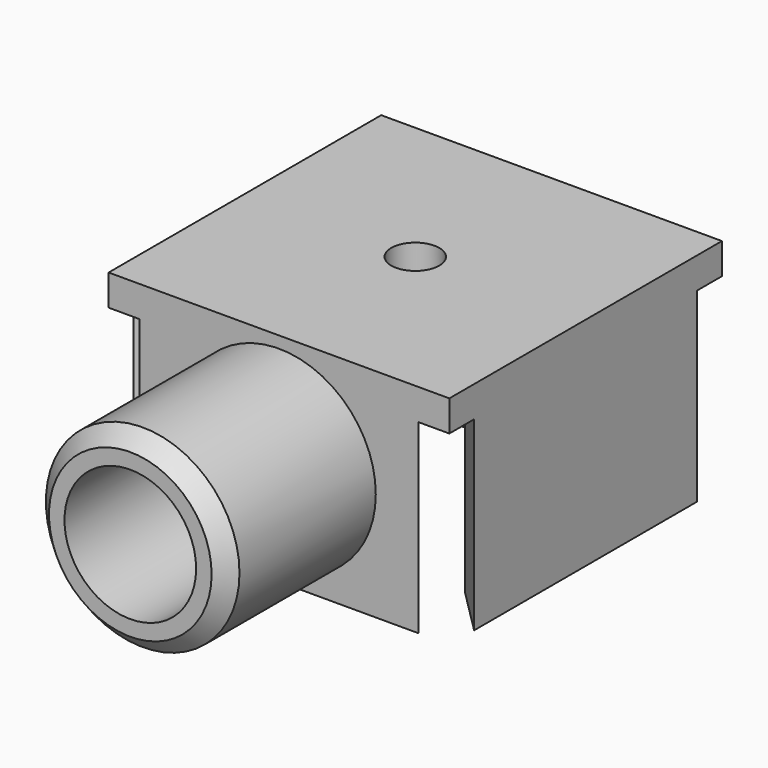
from build123d import *

# Parameters (mm, degrees)
F0_W     = 22
F0_H     = 22
F1_DEPTH = 2
F2_R     = 1.55
F3_DEPTH = 2.001
F5_DEPTH = 12
F6_R     = 6.25
F6_R_2   = 4.25
F7_DEPTH = 12
F8_SIZE  = 1


with BuildPart() as f1:
    # F0 (on Top) → F1 (new body)
    with BuildSketch(Plane.XY):
        Rectangle(F0_W, F0_H)
    extrude(amount=F1_DEPTH)

    # F2 (on face) → F3 (cut, through all)
    with BuildSketch(Plane.XY.offset(2)):
        Circle(F2_R)
    extrude(amount=-F3_DEPTH, mode=Mode.SUBTRACT)

    # F4 (on face) → F5 (join)
    with BuildSketch(Plane(origin=(0, 0, 0), x_dir=(1, 0, 0), z_dir=(0, 0, -1))):
        Polygon((9, 11), (-9, 11), (-6, 8), (6, 8), align=None)
        Polygon((-8, 6), (-11, 9), (-11, -9), (-8, -6), align=None)
        Polygon((-6, -8), (-9, -11), (9, -11), (6, -8), align=None)
        Polygon((8, -6), (11, -9), (11, 9), (8, 6), align=None)
    extrude(amount=F5_DEPTH)

    # F6 (on face) → F7 (join)
    with BuildSketch(Plane.XZ.offset(11)):
        with Locations((0, -5)):
            Circle(F6_R)
        with Locations((0, -5)):
            Circle(F6_R_2, mode=Mode.SUBTRACT)
    extrude(amount=F7_DEPTH)

    # F8
    f8_edges = [f1.edges().sort_by_distance(p)[0] for p in [
        (-6.25, -23, -5),
    ]]
    chamfer(f8_edges, length=F8_SIZE)


solid = f1.part
